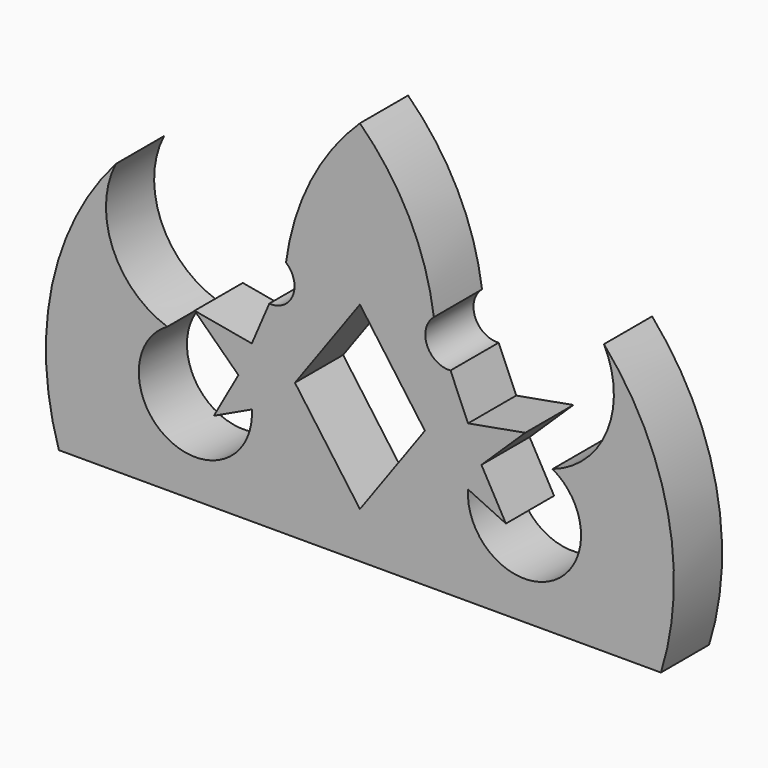
from build123d import *

# Parameters (mm, degrees)
F1_DEPTH = 17.78


with BuildPart() as f1:
    # F0 (on Front) → F1 (new body)
    with BuildSketch(Plane.XZ):
        with BuildLine():
            Line((-88.9, 0), (0, 0))
            Line((0, 0), (88.9, 0))
            ThreePointArc((88.9, 0), (90.956995, 42.162182), (72.073183, 79.915095))
            ThreePointArc((72.073183, 79.915095), (73.046418, 57.733575), (56.892026, 42.501941))
            ThreePointArc((56.892026, 42.501941), (56.5028, 13.271196), (31.930897, 29.108165))
            Line((31.930897, 29.108165), (43.115586, 23.842335))
            Line((43.115586, 23.842335), (35.894953, 36.763474))
            Line((35.894953, 36.763474), (48.816089, 49.304578))
            Line((48.816089, 49.304578), (31.930897, 46.264306))
            Line((31.930897, 46.264306), (26.75603, 58.330953))
            ThreePointArc((26.75603, 58.330953), (19.809503, 62.657192), (21.833714, 70.58645))
            ThreePointArc((21.833714, 70.58645), (14.598967, 94.103514), (0, 113.90917))
            ThreePointArc((0, 113.90917), (-14.598967, 94.103514), (-21.833714, 70.58645))
            ThreePointArc((-21.833714, 70.58645), (-19.809503, 62.657192), (-26.75603, 58.330953))
            Line((-26.75603, 58.330953), (-31.930897, 46.264306))
            Line((-31.930897, 46.264306), (-48.816089, 49.304578))
            Line((-48.816089, 49.304578), (-35.894953, 36.763474))
            Line((-35.894953, 36.763474), (-43.115586, 23.842335))
            Line((-43.115586, 23.842335), (-31.930897, 29.108165))
            ThreePointArc((-31.930897, 29.108165), (-56.5028, 13.271196), (-56.892026, 42.501941))
            ThreePointArc((-56.892026, 42.501941), (-73.046418, 57.733575), (-72.073183, 79.915095))
            ThreePointArc((-72.073183, 79.915095), (-90.956995, 42.162182), (-88.9, 0))
        make_face()
        Polygon((-19.190473, 40.196039), (0, 66.786118), (19.190473, 40.196039), (0, 13.581434), align=None, mode=Mode.SUBTRACT)
    extrude(amount=-F1_DEPTH)


solid = f1.part
